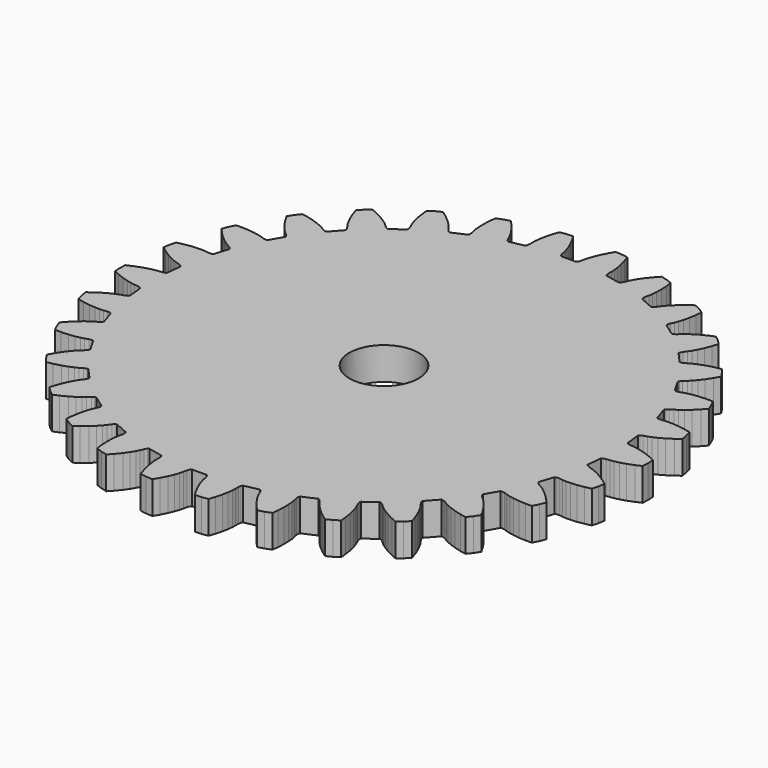
from build123d import *

# Parameters (mm, degrees)
F1_DEPTH = 127
F2_SCALE = 0.0184
F3_R     = 2.5
F4_DEPTH = 25.4


with BuildPart() as f1:
    # F0 (on Top) → F1 (new body)
    with BuildSketch(Plane.XY):
        Polygon((732.7652096, -244.7567622), (756.5151748, -239.325277), (762.9887712, -215.1655336), (766.9014888, -190.4614936), (747.4139992, -175.8395772), (724.3374388, -160.9211412), (704.1957468, -149.8106986), (687.388643, -142.0156164), (674.26078, -137.0073714), (660.158573, -132.7277), (651.0484566, -128.1519408), (646.995912, -123.2815924), (653.0416962, -65.7597872), (658.0182928, -61.838459), (667.880681, -59.2567776), (682.5644972, -58.0026526), (696.4467656, -55.833264), (714.5072832, -51.7029192), (736.5188216, -45.0229732), (762.1928368, -35.228403), (784.2945452, -24.9776996), (785.6035596, 0), (784.2945452, 24.9776996), (762.1928368, 35.228403), (736.5188216, 45.0229732), (714.5072832, 51.7029192), (696.4467656, 55.833264), (682.5644972, 58.0026526), (667.880681, 59.2567776), (658.0182928, 61.838459), (653.0416962, 65.7597872), (646.995912, 123.2815924), (651.0484566, 128.1519408), (660.158573, 132.7277), (674.26078, 137.0073714), (687.388643, 142.0156164), (704.1957468, 149.8106986), (724.3374388, 160.9211412), (747.4139992, 175.8395772), (766.9014888, 190.4614936), (762.9887712, 215.1655336), (756.5151748, 239.325277), (732.7652096, 244.7567622), (705.6158354, 248.999375), (682.6964502, 250.9568768), (664.1718492, 251.2419918), (650.1419306, 250.477655), (635.5182108, 248.6514458), (625.3345888, 249.1261972), (619.6514658, 251.9271568), (601.778324, 306.934997), (604.7297024, 312.5414628), (612.689402, 318.911351), (625.5936434, 326.0294978), (637.3933658, 333.6577528), (652.2124878, 344.7768822), (669.6040456, 359.8322242), (689.0746188, 379.2225588), (705.0962022, 397.5766242), (696.1326946, 420.9273268), (684.7774976, 443.2131598), (660.4172466, 443.5880638), (632.9790744, 442.0932992), (610.1535422, 439.242835), (591.9744828, 435.6702234), (578.4100446, 432.005613), (564.4855868, 427.178851), (554.4257898, 425.525946), (548.2845016, 427.084109), (519.3651792, 477.1738488), (521.0864102, 483.271449), (527.5477638, 491.1570314), (538.6900834, 500.8025798), (548.6459436, 510.7174444), (560.82946, 524.6746428), (574.7107886, 543.0168972), (589.7243984, 566.0316848), (601.5798484, 587.3157418), (587.9573458, 608.2925604), (572.216788, 627.73052), (548.3109176, 623.0324598), (521.7831068, 615.8656212), (500.0490126, 608.3317526), (483.0100068, 601.0575736), (470.503885, 594.6528366), (457.8872732, 587.0364942), (448.3909498, 583.3281704), (442.0598982, 583.5754394), (403.3582992, 626.557929), (403.774148, 632.8801414), (408.4548092, 641.9368162), (417.3482128, 653.6882024), (425.0251088, 665.4563018), (434.0405086, 681.641639), (443.804929, 702.4691564), (453.7054172, 728.1025062), (460.8765992, 751.3863306), (443.1904522, 769.0724776), (423.7524672, 784.8130354), (401.345781, 775.2473192), (376.88774, 762.7216648), (357.1949676, 750.833652), (342.0406926, 740.175812), (331.1394952, 731.3108818), (320.3820872, 721.2378514), (311.8642988, 715.6361354), (305.6201914, 714.5617154), (258.8277272, 748.5584216), (257.9200582, 754.8289196), (260.61543, 764.6608532), (266.8712468, 778.0044892), (271.9336446, 791.1115496), (277.386923, 808.8175848), (282.6076898, 831.2201308), (286.962342, 858.3517504), (289.1358454, 882.617742), (268.1590268, 896.2402446), (245.8731684, 907.595467), (225.944938, 893.5801534), (204.6256004, 876.243104), (187.8348288, 860.5205294), (175.2275896, 846.944839), (166.407719, 836.0071164), (157.9796942, 823.9176308), (150.8127032, 816.6673786), (144.9284376, 814.3182088), (92.0901892, 837.8433078), (89.8986264, 843.7880762), (90.4909544, 853.9655514), (93.8357534, 868.3182532), (96.062419, 882.1914284), (97.7152224, 900.6443506), (98.1641674, 923.6427806), (96.7826868, 951.0868964), (93.8634902, 975.274529), (70.5127876, 984.2380366), (46.3530696, 990.7116076), (29.774261, 972.8592684), (12.525375, 951.4685314), (-0.6295898, 932.5985158), (-10.1387656, 916.6982936), (-16.4918136, 904.1658574), (-22.2221298, 890.588262), (-27.7250906, 882.0063386), (-32.9923648, 878.4850858), (-89.5671056, 890.5104364), (-92.9467534, 895.8696332), (-94.4834026, 905.9478706), (-94.195773, 920.6823344), (-94.9021724, 934.7153264), (-97.1220562, 953.1086348), (-101.4645672, 975.6978454), (-108.5218302, 1002.2549932), (-116.4061172, 1025.3071442), (-141.1101572, 1029.2198618), (-166.0878822, 1030.5289016), (-178.5926832, 1009.6197486), (-191.0172456, 985.1101964), (-199.9614492, 963.9174778), (-205.9569922, 946.3876424), (-209.5655702, 932.8081928), (-212.3477084, 918.3359078), (-215.9461518, 908.797395), (-220.366209, 904.2579578), (-278.2048538, 904.2579578), (-282.624911, 908.797395), (-286.2233544, 918.3359078), (-289.0054926, 932.8081928), (-292.6140706, 946.3876424), (-298.6096136, 963.9174778), (-307.5538172, 985.1101964), (-319.9783796, 1009.6197486), (-332.4831806, 1030.5289016), (-357.4609056, 1029.2198618), (-382.1649456, 1025.3071442), (-390.0492326, 1002.2549932), (-397.1064956, 975.6978454), (-401.4490066, 953.1086348), (-403.6688904, 934.7153264), (-404.3752898, 920.6823344), (-404.0876602, 905.9478706), (-405.6243094, 895.8696332), (-409.0039572, 890.5104364), (-465.578698, 878.4850858), (-470.8459722, 882.0063386), (-476.348933, 890.588262), (-482.0792492, 904.1658574), (-488.4322972, 916.6982936), (-497.941473, 932.5985158), (-511.0964378, 951.4685314), (-528.3453238, 972.8592684), (-544.9241324, 990.7116076), (-569.0838504, 984.2380366), (-592.434553, 975.274529), (-595.3537496, 951.0868964), (-596.7352302, 923.6427806), (-596.2862852, 900.6443506), (-594.6334818, 882.1914284), (-592.4068162, 868.3182532), (-589.0620172, 853.9655514), (-588.4696892, 843.7880762), (-590.661252, 837.8433078), (-643.4995004, 814.3182088), (-649.383766, 816.6673786), (-656.550757, 823.9176308), (-664.9787818, 836.0071164), (-673.7986524, 846.944839), (-686.4058916, 860.5205294), (-703.1966632, 876.243104), (-724.5160008, 893.5801534), (-744.4442312, 907.595467), (-766.7300896, 896.2402446), (-787.7069082, 882.617742), (-785.5334048, 858.3517504), (-781.1787526, 831.2201308), (-775.9579858, 808.8175848), (-770.5047074, 791.1115496), (-765.4423096, 778.0044892), (-759.1864928, 764.6608532), (-756.491121, 754.8289196), (-757.39879, 748.5584216), (-804.1912542, 714.5617154), (-810.4353616, 715.6361354), (-818.95315, 721.2378514), (-829.710558, 731.3108818), (-840.6117554, 740.175812), (-855.7660304, 750.833652), (-875.4588028, 762.7216648), (-899.9168438, 775.2473192), (-922.32353, 784.8130354), (-941.761515, 769.0724776), (-959.447662, 751.3863306), (-952.27648, 728.1025062), (-942.3759918, 702.4691564), (-932.6115714, 681.641639), (-923.5961716, 665.4563018), (-915.9192756, 653.6882024), (-907.025872, 641.9368162), (-902.3452108, 632.8801414), (-901.929362, 626.557929), (-940.630961, 583.5754394), (-946.9620126, 583.3281704), (-956.458336, 587.0364942), (-969.0749478, 594.6528366), (-981.5810696, 601.0575736), (-998.6200754, 608.3317526), (-1020.3541696, 615.8656212), (-1046.8819804, 623.0324598), (-1070.7878508, 627.73052), (-1086.5284086, 608.2925604), (-1100.1509112, 587.3157418), (-1088.2954612, 566.0316848), (-1073.2818514, 543.0168972), (-1059.4005228, 524.6746428), (-1047.2170064, 510.7174444), (-1037.2611462, 500.8025798), (-1026.1188266, 491.1570314), (-1019.657473, 483.271449), (-1017.936242, 477.1738488), (-1046.8555644, 427.084109), (-1052.9968526, 425.525946), (-1063.0566496, 427.178851), (-1076.9811074, 432.005613), (-1090.5455456, 435.6702234), (-1108.724605, 439.242835), (-1131.5501372, 442.0932992), (-1158.9883094, 443.5880638), (-1183.3485604, 443.2131598), (-1194.7037574, 420.9273268), (-1203.667265, 397.5766242), (-1187.6456816, 379.2225588), (-1168.1751084, 359.8322242), (-1150.7835506, 344.7768822), (-1135.9644286, 333.6577528), (-1124.1647062, 326.0294978), (-1111.2604648, 318.911351), (-1103.3007652, 312.5414628), (-1100.3493868, 306.934997), (-1118.2225286, 251.9271568), (-1123.9056516, 249.1261972), (-1134.0892736, 248.6514458), (-1148.7129934, 250.477655), (-1162.742912, 251.2419918), (-1181.267513, 250.9568768), (-1204.1868982, 248.999375), (-1231.3362724, 244.7567622), (-1255.0862376, 239.325277), (-1261.559834, 215.1655336), (-1265.4725516, 190.4614936), (-1245.985062, 175.8395772), (-1222.9085016, 160.9211412), (-1202.7668096, 149.8106986), (-1185.9597058, 142.0156164), (-1172.8318428, 137.0073714), (-1158.7296358, 132.7277), (-1149.6195194, 128.1519408), (-1145.5669748, 123.2815924), (-1151.612759, 65.7597872), (-1156.5893556, 61.838459), (-1166.4517438, 59.2567776), (-1181.13556, 58.0026526), (-1195.0178284, 55.833264), (-1213.078346, 51.7029192), (-1235.0898844, 45.0229732), (-1260.7638996, 35.228403), (-1282.865608, 24.9776996), (-1284.1746224, 0), (-1282.865608, -24.9776996), (-1260.7638996, -35.228403), (-1235.0898844, -45.0229732), (-1213.078346, -51.7029192), (-1195.0178284, -55.833264), (-1181.13556, -58.0026526), (-1166.4517438, -59.2567776), (-1156.5893556, -61.838459), (-1151.612759, -65.7597872), (-1145.5669748, -123.2815924), (-1149.6195194, -128.1519408), (-1158.7296358, -132.7277), (-1172.8318428, -137.0073714), (-1185.9597058, -142.0156164), (-1202.7668096, -149.8106986), (-1222.9085016, -160.9211412), (-1245.985062, -175.8395772), (-1265.4725516, -190.4614936), (-1261.559834, -215.1655336), (-1255.0862376, -239.325277), (-1231.3362724, -244.7567622), (-1204.1868982, -248.999375), (-1181.267513, -250.9568768), (-1162.742912, -251.2419918), (-1148.7129934, -250.477655), (-1134.0892736, -248.6514458), (-1123.9056516, -249.1261972), (-1118.2225286, -251.9271568), (-1100.3493868, -306.934997), (-1103.3007652, -312.5414628), (-1111.2604648, -318.911351), (-1124.1647062, -326.0294978), (-1135.9644286, -333.6577528), (-1150.7835506, -344.7768822), (-1168.1751084, -359.8322242), (-1187.6456816, -379.2225588), (-1203.667265, -397.5766242), (-1194.7037574, -420.9273268), (-1183.3485604, -443.2131598), (-1158.9883094, -443.5880638), (-1131.5501372, -442.0932992), (-1108.724605, -439.242835), (-1090.5455456, -435.6702234), (-1076.9811074, -432.005613), (-1063.0566496, -427.178851), (-1052.9968526, -425.525946), (-1046.8555644, -427.084109), (-1017.936242, -477.1738488), (-1019.657473, -483.271449), (-1026.1188266, -491.1570314), (-1037.2611462, -500.8025798), (-1047.2170064, -510.7174444), (-1059.4005228, -524.6746428), (-1073.2818514, -543.0168972), (-1088.2954612, -566.0316848), (-1100.1509112, -587.3157418), (-1086.5284086, -608.2925604), (-1070.7878508, -627.73052), (-1046.8819804, -623.0324598), (-1020.3541696, -615.8656212), (-998.6200754, -608.3317526), (-981.5810696, -601.0575736), (-969.0749478, -594.6528366), (-956.458336, -587.0364942), (-946.9620126, -583.3281704), (-940.630961, -583.5754394), (-901.929362, -626.557929), (-902.3452108, -632.8801414), (-907.025872, -641.9368162), (-915.9192756, -653.6882024), (-923.5961716, -665.4563018), (-932.6115714, -681.641639), (-942.3759918, -702.4691564), (-952.27648, -728.1025062), (-959.447662, -751.3863306), (-941.761515, -769.0724776), (-922.32353, -784.8130354), (-899.9168438, -775.2473192), (-875.4588028, -762.7216648), (-855.7660304, -750.833652), (-840.6117554, -740.175812), (-829.710558, -731.3108818), (-818.95315, -721.2378514), (-810.4353616, -715.6361354), (-804.1912542, -714.5617154), (-757.39879, -748.5584216), (-756.491121, -754.8289196), (-759.1864928, -764.6608532), (-765.4423096, -778.0044892), (-770.5047074, -791.1115496), (-775.9579858, -808.8175848), (-781.1787526, -831.2201308), (-785.5334048, -858.3517504), (-787.7069082, -882.617742), (-766.7300896, -896.2402446), (-744.4442312, -907.595467), (-724.5160008, -893.5801534), (-703.1966632, -876.243104), (-686.4058916, -860.5205294), (-673.7986524, -846.944839), (-664.9787818, -836.0071164), (-656.550757, -823.9176308), (-649.383766, -816.6673786), (-643.4995004, -814.3182088), (-590.661252, -837.8433078), (-588.4696892, -843.7880762), (-589.0620172, -853.9655514), (-592.4068162, -868.3182532), (-594.6334818, -882.1914284), (-596.2862852, -900.6443506), (-596.7352302, -923.6427806), (-595.3537496, -951.0868964), (-592.434553, -975.274529), (-569.0838504, -984.2380366), (-544.9241324, -990.7116076), (-528.3453238, -972.8592684), (-511.0964378, -951.4685314), (-497.941473, -932.5985158), (-488.4322972, -916.6982936), (-482.0792492, -904.1658574), (-476.348933, -890.588262), (-470.8459722, -882.0063386), (-465.578698, -878.4850858), (-409.0039572, -890.5104364), (-405.6243094, -895.8696332), (-404.0876602, -905.9478706), (-404.3752898, -920.6823344), (-403.6688904, -934.7153264), (-401.4490066, -953.1086348), (-397.1064956, -975.6978454), (-390.0492326, -1002.2549932), (-382.1649456, -1025.3071442), (-357.4609056, -1029.2198618), (-332.4831806, -1030.5289016), (-319.9783796, -1009.6197486), (-307.5538172, -985.1101964), (-298.6096136, -963.9174778), (-292.6140706, -946.3876424), (-289.0054926, -932.8081928), (-286.2233544, -918.3359078), (-282.624911, -908.797395), (-278.2048538, -904.2579578), (-220.366209, -904.2579578), (-215.9461518, -908.797395), (-212.3477084, -918.3359078), (-209.5655702, -932.8081928), (-205.9569922, -946.3876424), (-199.9614492, -963.9174778), (-191.0172456, -985.1101964), (-178.5926832, -1009.6197486), (-166.0878822, -1030.5289016), (-141.1101572, -1029.2198618), (-116.4061172, -1025.3071442), (-108.5218302, -1002.2549932), (-101.4645672, -975.6978454), (-97.1220562, -953.1086348), (-94.9021724, -934.7153264), (-94.195773, -920.6823344), (-94.4834026, -905.9478706), (-92.9467534, -895.8696332), (-89.5671056, -890.5104364), (-32.9923648, -878.4850858), (-27.7250906, -882.0063386), (-22.2221298, -890.588262), (-16.4918136, -904.1658574), (-10.1387656, -916.6982936), (-0.6295898, -932.5985158), (12.525375, -951.4685314), (29.774261, -972.8592684), (46.3530696, -990.7116076), (70.5127876, -984.2380366), (93.8634902, -975.274529), (96.7826868, -951.0868964), (98.1641674, -923.6427806), (97.7152224, -900.6443506), (96.062419, -882.1914284), (93.8357534, -868.3182532), (90.4909544, -853.9655514), (89.8986264, -843.7880762), (92.0901892, -837.8433078), (144.9284376, -814.3182088), (150.8127032, -816.6673786), (157.9796942, -823.9176308), (166.407719, -836.0071164), (175.2275896, -846.944839), (187.8348288, -860.5205294), (204.6256004, -876.243104), (225.944938, -893.5801534), (245.8731684, -907.595467), (268.1590268, -896.2402446), (289.1358454, -882.617742), (286.962342, -858.3517504), (282.6076898, -831.2201308), (277.386923, -808.8175848), (271.9336446, -791.1115496), (266.8712468, -778.0044892), (260.61543, -764.6608532), (257.9200582, -754.8289196), (258.8277272, -748.5584216), (305.6201914, -714.5617154), (311.8642988, -715.6361354), (320.3820872, -721.2378514), (331.1394952, -731.3108818), (342.0406926, -740.175812), (357.1949676, -750.833652), (376.88774, -762.7216648), (401.345781, -775.2473192), (423.7524672, -784.8130354), (443.1904522, -769.0724776), (460.8765992, -751.3863306), (453.7054172, -728.1025062), (443.804929, -702.4691564), (434.0405086, -681.641639), (425.0251088, -665.4563018), (417.3482128, -653.6882024), (408.4548092, -641.9368162), (403.774148, -632.8801414), (403.3582992, -626.557929), (442.0598982, -583.5754394), (448.3909498, -583.3281704), (457.8872732, -587.0364942), (470.503885, -594.6528366), (483.0100068, -601.0575736), (500.0490126, -608.3317526), (521.7831068, -615.8656212), (548.3109176, -623.0324598), (572.216788, -627.73052), (587.9573458, -608.2925604), (601.5798484, -587.3157418), (589.7243984, -566.0316848), (574.7107886, -543.0168972), (560.82946, -524.6746428), (548.6459436, -510.7174444), (538.6900834, -500.8025798), (527.5477638, -491.1570314), (521.0864102, -483.271449), (519.3651792, -477.1738488), (548.2845016, -427.084109), (554.4257898, -425.525946), (564.4855868, -427.178851), (578.4100446, -432.005613), (591.9744828, -435.6702234), (610.1535422, -439.242835), (632.9790744, -442.0932992), (660.4172466, -443.5880638), (684.7774976, -443.2131598), (696.1326946, -420.9273268), (705.0962022, -397.5766242), (689.0746188, -379.2225588), (669.6040456, -359.8322242), (652.2124878, -344.7768822), (637.3933658, -333.6577528), (625.5936434, -326.0294978), (612.689402, -318.911351), (604.7297024, -312.5414628), (601.778324, -306.934997), (619.6514658, -251.9271568), (625.3345888, -249.1261972), (635.5182108, -248.6514458), (650.1419306, -250.477655), (664.1718492, -251.2419918), (682.6964502, -250.9568768), (705.6158354, -248.999375), align=None)
        Polygon((-228.6233172, -46.4081114), (-238.7236272, -49.689893), (-249.2855314, -50.8), (-259.8474356, -49.689893), (-269.9477456, -46.4081114), (-279.1450348, -41.0980636), (-287.0372974, -33.9918294), (-293.2796268, -25.4), (-297.5992016, -15.6980636), (-299.807249, -5.3100478), (-299.807249, 5.3100478), (-297.5992016, 15.6980636), (-293.2796268, 25.4), (-287.0372974, 33.9918294), (-279.1450348, 41.0980636), (-269.9477456, 46.4081114), (-259.8474356, 49.689893), (-249.2855314, 50.8), (-238.7236272, 49.689893), (-228.6233172, 46.4081114), (-219.426028, 41.0980636), (-211.5337654, 33.9918294), (-205.291436, 25.4), (-200.9718612, 15.6980636), (-198.7638138, 5.3100478), (-198.7638138, -5.3100478), (-200.9718612, -15.6980636), (-205.291436, -25.4), (-211.5337654, -33.9918294), (-219.426028, -41.0980636), align=None, mode=Mode.SUBTRACT)
    extrude(amount=F1_DEPTH)


with BuildPart() as f1_1:
    # F2: moved
    add(f1.part.scale(F2_SCALE))

    # F3 (on face) → F4 (cut)
    with BuildSketch(Plane.XY.offset(2.3368)):
        with Locations((-4.5868537778, 0)):
            Circle(F3_R)
    extrude(amount=-F4_DEPTH, mode=Mode.SUBTRACT)


solid = f1_1.part
